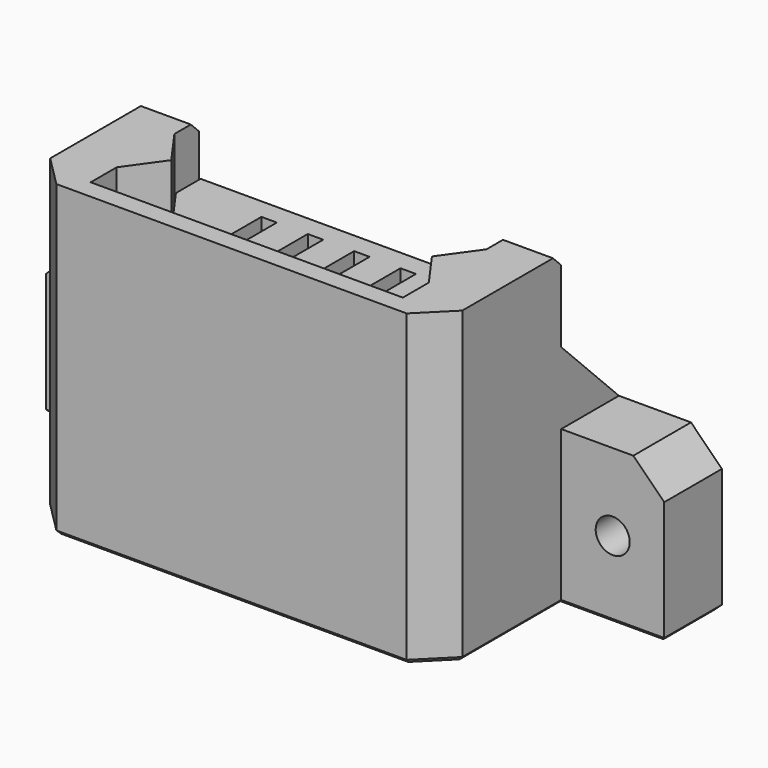
from build123d import *

# Parameters (mm, degrees)
SKETCH_W        = 60
SKETCH_H        = 15
SKETCH_R        = 1.65
PAD_DEPTH       = 7
SKETCH001_W     = 40
SKETCH001_H     = 20
PAD001_DEPTH    = 5
SKETCH002_W     = 4.85
SKETCH002_H     = 13
PAD002_DEPTH    = 25
PAD003_DEPTH    = 25
SKETCH009_W     = 30.3
SKETCH009_H     = 0.15
POCKET004_DEPTH = 10
SKETCH010_W     = 40
SKETCH010_H     = 2
PAD005_DEPTH    = 30
SKETCH011_W     = 30.3
SKETCH011_H     = 0.15
POCKET005_DEPTH = 25
SKETCH012_R     = 2
POCKET006_DEPTH = 5.001
CHAMFER_SIZE    = 3
CHAMFER001_SIZE = 1
CHAMFER002_SIZE = 3
CHAMFER003_SIZE = 0.4
PAD006_DEPTH    = 4.85
SKETCH004_W     = 30
SKETCH004_H     = 13
PAD004_DEPTH    = 15
POCKET_DEPTH    = 15.001
SKETCH006_W     = 20
SKETCH006_H     = 1.5
POCKET001_DEPTH = 11
SKETCH007_W     = 1.5
SKETCH007_H     = 11
POCKET002_DEPTH = 3
SKETCH008_R     = 1.65
POCKET003_DEPTH = 5


with BuildPart() as base:
    # Sketch → Pad (new body)
    with BuildSketch(Plane.XZ):
        with Locations((0, 7.5)):
            Rectangle(SKETCH_W, SKETCH_H)
        with Locations((-25, 7.5)):
            Circle(SKETCH_R, mode=Mode.SUBTRACT)
        with Locations((25, 7.5)):
            Circle(SKETCH_R, mode=Mode.SUBTRACT)
    extrude(amount=PAD_DEPTH)

    # Sketch001 (on Face1 of Pad) → Pad001 (join)
    with BuildSketch(Plane(origin=(0, 0, 0), x_dir=(1, 0, 0), z_dir=(0, 0, -1))):
        with Locations((0, 10)):
            Rectangle(SKETCH001_W, SKETCH001_H)
    extrude(amount=-PAD001_DEPTH)

    # Sketch002 (on Face14 of Pad001) → Pad002 (join)
    with BuildSketch(Plane(origin=(0, 0, 5), x_dir=(-1, 0, 0), z_dir=(0, 0, 1))):
        with Locations((-17.575, 13.5)):
            Rectangle(SKETCH002_W, SKETCH002_H)
        with Locations((17.575, 13.5)):
            Rectangle(SKETCH002_W, SKETCH002_H)
    extrude(amount=PAD002_DEPTH)

    # Sketch003 (on Face24 of Pad002) → Pad003 (join)
    with BuildSketch(Plane(origin=(0, 0, 30), x_dir=(-1, 0, 0), z_dir=(0, 0, 1))):
        Polygon((-15.15, 17), (-12.65, 13.5), (-15.15, 10), align=None)
        Polygon((15.15, 17), (12.65, 13.5), (15.15, 10), align=None)
    extrude(amount=-PAD003_DEPTH)

    # Sketch009 (on Face6 of Pad003) → Pocket004 (cut)
    with BuildSketch(Plane(origin=(0, 0, 15), x_dir=(-1, 0, 0), z_dir=(0, 0, 1))):
        with Locations((0, 6.925)):
            Rectangle(SKETCH009_W, SKETCH009_H)
    extrude(amount=-POCKET004_DEPTH, mode=Mode.SUBTRACT)

    # Sketch010 (on Face12 of Pocket004) → Pad005 (join)
    with BuildSketch(Plane(origin=(0, 0, 0), x_dir=(1, 0, 0), z_dir=(0, 0, -1))):
        with Locations((0, 21)):
            Rectangle(SKETCH010_W, SKETCH010_H)
    extrude(amount=-PAD005_DEPTH)

    # Sketch011 (on Face32 of Pad005) → Pocket005 (cut)
    with BuildSketch(Plane(origin=(0, 0, 30), x_dir=(-1, 0, 0), z_dir=(0, 0, 1))):
        with Locations((0, 20.075)):
            Rectangle(SKETCH011_W, SKETCH011_H)
    extrude(amount=-POCKET005_DEPTH, mode=Mode.SUBTRACT)

    # Sketch012 (on Face35 of Pocket005) → Pocket006 (cut, through all)
    with BuildSketch(Plane(origin=(0, 0, 5), x_dir=(-1, 0, 0), z_dir=(0, 0, 1))):
        with Locations((0, 13.5)):
            Circle(SKETCH012_R)
    extrude(amount=-POCKET006_DEPTH, mode=Mode.SUBTRACT)

    # Chamfer
    chamfer_edges = [base.edges().sort_by_distance(p)[0] for p in [
        (-20, -22, 15),
        (20, -22, 15),
    ]]
    chamfer(chamfer_edges, length=CHAMFER_SIZE)

    # Chamfer001
    chamfer001_edges = [base.edges().sort_by_distance(p)[0] for p in [
        (17.575, -7, 30),
        (-17.575, -7, 30),
    ]]
    chamfer(chamfer001_edges, length=CHAMFER001_SIZE)

    # Chamfer002
    chamfer002_edges = [base.edges().sort_by_distance(p)[0] for p in [
        (30, -3.5, 15),
        (-30, -3.5, 15),
    ]]
    chamfer(chamfer002_edges, length=CHAMFER002_SIZE)

    # Chamfer003
    chamfer003_edges = [base.edges().sort_by_distance(p)[0] for p in [
        (20, -13, 0),
        (18.5, -20.5, 0),
        (25, -7, 0),
        (0, -22, 0),
        (30, -3.5, 0),
        (-18.5, -20.5, 0),
        (0, 0, 0),
        (-20, -13, 0),
        (-30, -3.5, 0),
        (-25, -7, 0),
        (2, -13.5, 0),
    ]]
    chamfer(chamfer003_edges, length=CHAMFER003_SIZE)

    # Sketch013 (on Face24 of Chamfer003) → Pad006 (join)
    with BuildSketch(Plane(origin=(-20, 0, 0), x_dir=(0, 0, -1), z_dir=(-1, 0, 0))):
        Polygon((-22, 7), (-15, 0), (-15, 7), align=None)
    pad006 = extrude(amount=-PAD006_DEPTH)

    # Mirrored: Pad006 across YZ
    add(pad006.mirror(Plane.YZ))


with BuildPart() as obj1:
    # Sketch004 → Pad004 (new body)
    with BuildSketch(Plane.XY):
        Rectangle(SKETCH004_W, SKETCH004_H)
    extrude(amount=PAD004_DEPTH)

    # Sketch005 (on Face6 of Pad004) → Pocket (cut, through all)
    with BuildSketch(Plane.XY.offset(15)):
        Polygon((-15, 3.5), (-12.5, 0), (-15, -3.5), align=None)
        Polygon((15, 3.5), (12.5, 0), (15, -3.5), align=None)
    extrude(amount=-POCKET_DEPTH, mode=Mode.SUBTRACT)

    # Sketch006 (on Face10 of Pocket) → Pocket001 (cut)
    with BuildSketch(Plane.XZ.offset(6.5)):
        with Locations((0, 11.25)):
            Rectangle(SKETCH006_W, SKETCH006_H)
    extrude(amount=-POCKET001_DEPTH, mode=Mode.SUBTRACT)

    # Sketch007 (on Face5 of Pocket001) → Pocket002 (cut)
    with BuildSketch(Plane.XY.offset(15)):
        with Locations((-6.75, -1)):
            Rectangle(SKETCH007_W, SKETCH007_H)
        with Locations((-2.25, -1)):
            Rectangle(SKETCH007_W, SKETCH007_H)
        with Locations((2.25, -1)):
            Rectangle(SKETCH007_W, SKETCH007_H)
        with Locations((6.75, -1)):
            Rectangle(SKETCH007_W, SKETCH007_H)
    extrude(amount=-POCKET002_DEPTH, mode=Mode.SUBTRACT)

    # Sketch008 (on Face4 of Pocket002) → Pocket003 (cut)
    with BuildSketch(Plane(origin=(0, 0, 0), x_dir=(1, 0, 0), z_dir=(0, 0, -1))):
        Circle(SKETCH008_R)
    extrude(amount=-POCKET003_DEPTH, mode=Mode.SUBTRACT)


with BuildPart() as obj1_1:
    # Body001 placement: moved
    add(obj1.part.moved(Location((0, -13.5, 10))))


solid = Compound([base.part, obj1_1.part])
